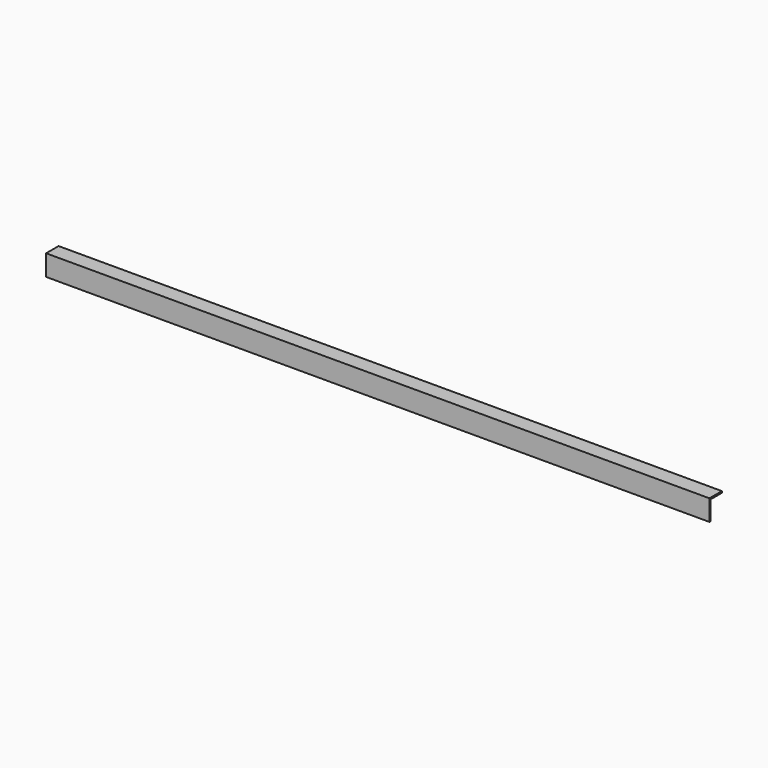
from build123d import *

# Parameters (mm, degrees)
BOX013_W      = 637
BOX013_H      = 15
BOX013_DEPTH  = 20
BOX012_W      = 637
BOX012_H      = 15
BOX012_DEPTH  = 20
SKETCH012_R   = 2.05
HOLE007_DEPTH = 1291.481784


with BuildPart() as cube008:
    # Box013 → Box013 (new body)
    with BuildSketch(Plane(origin=(1.5, 1.5, -1.5), x_dir=(1, 0, 0), z_dir=(0, 0, 1))):
        with Locations((318.5, 7.5)):
            Rectangle(BOX013_W, BOX013_H)
    extrude(amount=BOX013_DEPTH)


with BuildPart() as top_front_body:
    # Box012 → Box012 (new body)
    with BuildSketch(Plane(origin=(1.5, 0, 0), x_dir=(1, 0, 0), z_dir=(0, 0, 1))):
        with Locations((318.5, 7.5)):
            Rectangle(BOX012_W, BOX012_H)
    extrude(amount=BOX012_DEPTH)

    # Cut: cut Cube008
    add(cube008.part, mode=Mode.SUBTRACT)


with BuildPart() as top_front_body_1:
    # Cut placement: moved
    add(top_front_body.part.moved(Location((0, 1.5, 250))))


with BuildPart() as top_front_body_2:
    # BaseFeature005 placement: moved
    add(top_front_body_1.part.moved(Location((0, -1.5, -250))))

    # Sketch012 → Hole007 (cut, through all)
    with BuildSketch(Plane.XZ.offset(1.5)):
        with Locations((-7.75, 9.25)):
            Circle(SKETCH012_R)
    hole007 = extrude(amount=-HOLE007_DEPTH, mode=Mode.SUBTRACT)

    # Mirrored004: Hole007 across Sketch012 Axis0
    add(hole007.mirror(Plane(origin=(320, -1.5, 19.25), x_dir=(0, -1, 0), z_dir=(1, 0, 0))), mode=Mode.SUBTRACT)


with BuildPart() as top_front_body_3:
    # Body005 placement: moved
    add(top_front_body_2.part.moved(Location((0, 1.5, 260))))


solid = top_front_body_3.part
